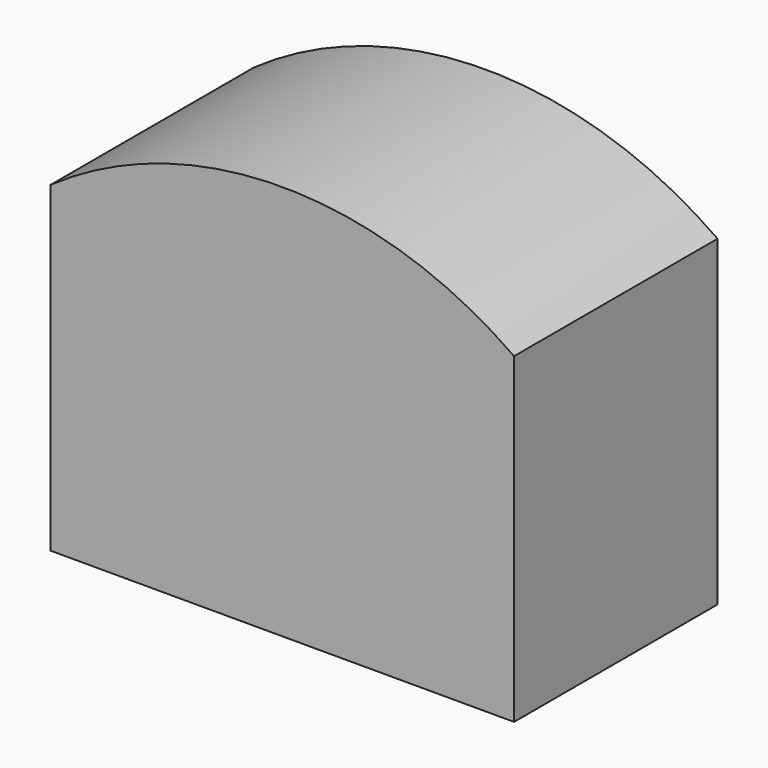
from build123d import *

# Parameters (mm, degrees)
F0_W     = 9.144
F0_H     = 6.35
F1_DEPTH = 5.0165
F2_T     = -1.5875


with BuildPart() as f1:
    # F0 (on Front) → F1 (new body)
    with BuildSketch(Plane.XZ):
        with Locations((-0.283035, 3.175)):
            Rectangle(F0_W, F0_H)
        with BuildLine():
            ThreePointArc((4.288965, 6.35), (-0.283035, 7.801605), (-4.855035, 6.35))
            Line((-4.855035, 6.35), (4.288965, 6.35))
        make_face()
        with Locations((-0.283035, 3.175)):
            Rectangle(F0_W, F0_H)
    extrude(amount=F1_DEPTH)

    # F2
    f2_openings = [f1.faces().sort_by_distance(p)[0] for p in [
        (-0.283035, -2.50825, 0),
    ]]
    offset(amount=F2_T, openings=f2_openings)


solid = f1.part
